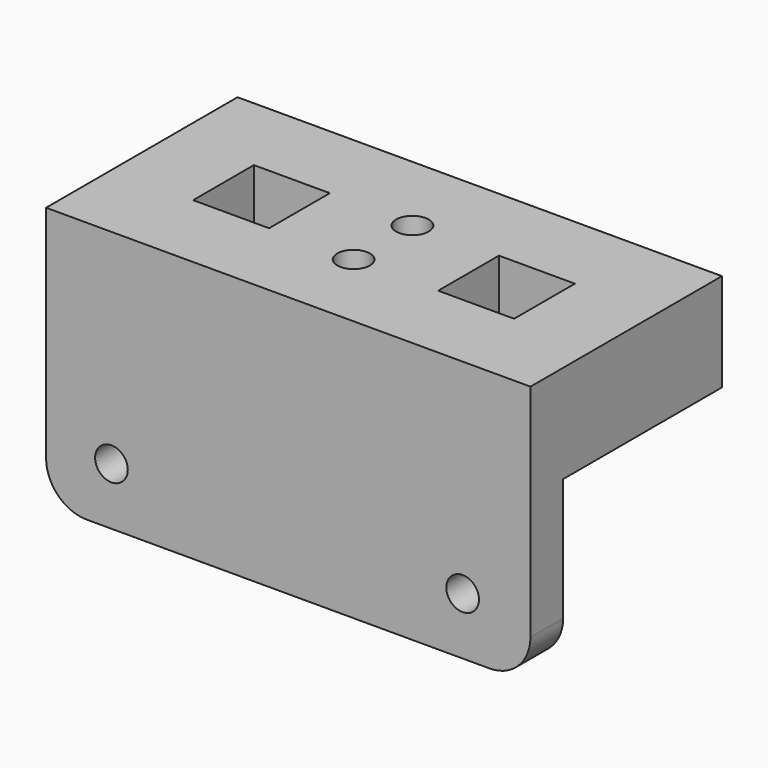
from build123d import *

# Parameters (mm, degrees)
BOX004_W               = 3
BOX004_H               = 10
BOX004_DEPTH           = 3
CYLINDER005_R          = 2
CYLINDER005_DEPTH      = 3
CYLINDER001_R          = 3
CYLINDER001_DEPTH      = 10
CYLINDER006_R          = 2
CYLINDER006_DEPTH      = 3
CYLINDER004_R          = 3
CYLINDER004_DEPTH      = 10
BOX_W                  = 9.3
BOX_H                  = 9.3
BOX_DEPTH              = 12
BOX005_W               = 9.3
BOX005_H               = 9.3
BOX005_DEPTH           = 12
BOX003_W               = 59.3
BOX003_H               = 29.3
BOX003_DEPTH           = 12
CYLINDER002_R          = 2
CYLINDER002_DEPTH      = 10
CYLINDER002_ROLL_ANGLE = 90
CYLINDER003_R          = 2
CYLINDER003_DEPTH      = 10
CYLINDER003_ROLL_ANGLE = 90
BOX006_W               = 59.3
BOX006_H               = 5
BOX006_DEPTH           = 20
FILLET_R               = 5
BOX001_W               = 3
BOX001_H               = 10
BOX001_DEPTH           = 3


with BuildPart() as cube004:
    # Box004 → Box004 (new body)
    with BuildSketch(Plane(origin=(33.5, 0, 0), x_dir=(1, 0, 0), z_dir=(0, 0, 1))):
        with Locations((1.5, 5)):
            Rectangle(BOX004_W, BOX004_H)
    extrude(amount=BOX004_DEPTH)


with BuildPart() as cylinder005:
    # Cylinder005 → Cylinder005 (new body)
    with BuildSketch(Plane(origin=(19.65, 9, 5), x_dir=(1, 0, 0), z_dir=(0, 0, 1))):
        Circle(CYLINDER005_R)
    extrude(amount=CYLINDER005_DEPTH)


with BuildPart() as cylinder001:
    # Cylinder001 → Cylinder001 (new body)
    with BuildSketch(Plane(origin=(19.65, 9, -5), x_dir=(1, 0, 0), z_dir=(0, 0, 1))):
        Circle(CYLINDER001_R)
    extrude(amount=CYLINDER001_DEPTH)


with BuildPart() as cylinder006:
    # Cylinder006 → Cylinder006 (new body)
    with BuildSketch(Plane(origin=(19.65, 0, 5), x_dir=(1, 0, 0), z_dir=(0, 0, 1))):
        Circle(CYLINDER006_R)
    extrude(amount=CYLINDER006_DEPTH)


with BuildPart() as fusion003:
    # Cylinder004 → Cylinder004 (new body)
    with BuildSketch(Plane(origin=(19.65, 0, -5), x_dir=(1, 0, 0), z_dir=(0, 0, 1))):
        Circle(CYLINDER004_R)
    extrude(amount=CYLINDER004_DEPTH)

    # Fusion003: union Cylinder005, Cylinder001, Cylinder006
    add(cylinder005.part)
    add(cylinder001.part)
    add(cylinder006.part)


with BuildPart() as fusion003_1:
    # Fusion003 placement: moved
    add(fusion003.part.moved(Location((0, 0, 4))))


with BuildPart() as cube:
    # Box → Box (new body)
    with BuildSketch(Plane(origin=(30, 0, 0), x_dir=(1, 0, 0), z_dir=(0, 0, 1))):
        with Locations((4.65, 4.65)):
            Rectangle(BOX_W, BOX_H)
    extrude(amount=BOX_DEPTH)


with BuildPart() as fusion:
    # Box005 → Box005 (new body)
    with BuildSketch(Plane.XY):
        with Locations((4.65, 4.65)):
            Rectangle(BOX005_W, BOX005_H)
    extrude(amount=BOX005_DEPTH)

    # Fusion: union Cube
    add(cube.part)


with BuildPart() as cut001:
    # Box003 → Box003 (new body)
    with BuildSketch(Plane(origin=(-10, -10, 0), x_dir=(1, 0, 0), z_dir=(0, 0, 1))):
        with Locations((29.65, 14.65)):
            Rectangle(BOX003_W, BOX003_H)
    extrude(amount=BOX003_DEPTH)

    # Cut: cut Fusion
    add(fusion.part, mode=Mode.SUBTRACT)

    # Cut001: cut Fusion003
    add(fusion003_1.part, mode=Mode.SUBTRACT)


with BuildPart() as cylinder002:
    # Cylinder002 → Cylinder002 (new body)
    with BuildSketch(Plane.XY):
        Circle(CYLINDER002_R)
    extrude(amount=CYLINDER002_DEPTH)


with BuildPart() as cylinder002_1:
    # Cylinder002 roll: moved
    add(cylinder002.part.rotate(Axis((0, 0, 0), (1, 0, 0)), CYLINDER002_ROLL_ANGLE))


with BuildPart() as cylinder002_2:
    # Cylinder002 placement: moved
    add(cylinder002_1.part.moved(Location((-2, 0, -13))))


with BuildPart() as fusion002:
    # Cylinder003 → Cylinder003 (new body)
    with BuildSketch(Plane.XY):
        Circle(CYLINDER003_R)
    extrude(amount=CYLINDER003_DEPTH)


with BuildPart() as fusion002_1:
    # Cylinder003 roll: moved
    add(fusion002.part.rotate(Axis((0, 0, 0), (1, 0, 0)), CYLINDER003_ROLL_ANGLE))


with BuildPart() as fusion002_2:
    # Cylinder003 placement: moved
    add(fusion002_1.part.moved(Location((41, 0, -13))))

    # Fusion002: union Cylinder002
    add(cylinder002_2.part)


with BuildPart() as cut002:
    # Box006 → Box006 (new body)
    with BuildSketch(Plane(origin=(-10, -10, -20), x_dir=(1, 0, 0), z_dir=(0, 0, 1))):
        with Locations((29.65, 2.5)):
            Rectangle(BOX006_W, BOX006_H)
    extrude(amount=BOX006_DEPTH)

    # Fillet
    fillet_edges = [cut002.edges().sort_by_distance(p)[0] for p in [
        (-10, -7.5, -20),
        (49.3, -7.5, -20),
    ]]
    fillet(fillet_edges, radius=FILLET_R)

    # Cut002: cut Fusion002
    add(fusion002_2.part, mode=Mode.SUBTRACT)


with BuildPart() as fusion004:
    # Box001 → Box001 (new body)
    with BuildSketch(Plane(origin=(3.5, 0, 0), x_dir=(1, 0, 0), z_dir=(0, 0, 1))):
        with Locations((1.5, 5)):
            Rectangle(BOX001_W, BOX001_H)
    extrude(amount=BOX001_DEPTH)

    # Fusion004: union Cube004, Cut001, Cut002
    add(cube004.part)
    add(cut001.part)
    add(cut002.part)


solid = fusion004.part
